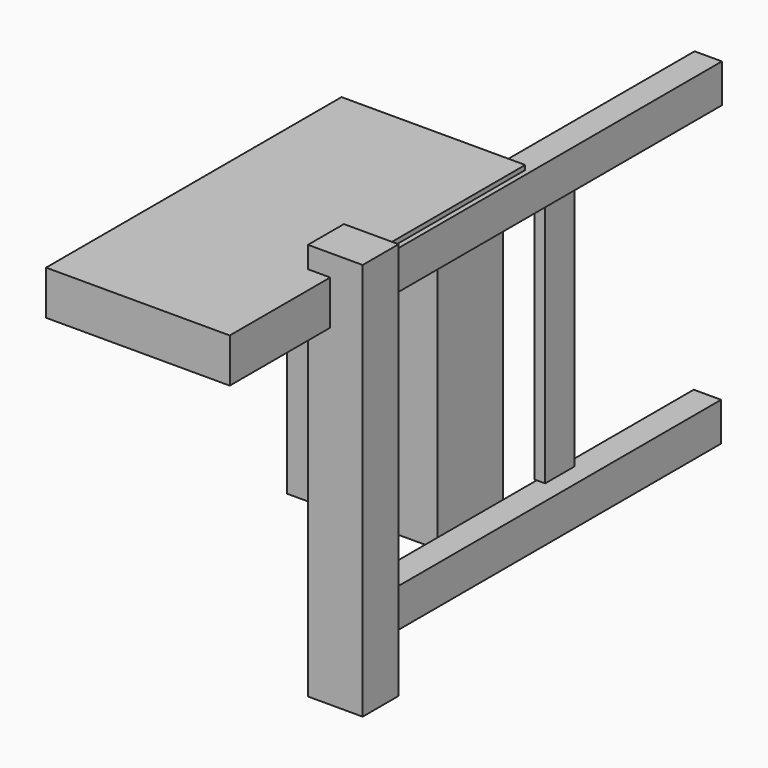
from build123d import *

# Parameters (mm, degrees)
F0_W      = 8.211054
F0_H      = 72.753724
F1_DEPTH  = 10
F2_W      = 80.200952
F2_H      = 7.065325
F3_DEPTH  = 5
F4_W      = 80.010001
F4_H      = 7.065322
F5_DEPTH  = 5
F7_W      = 6.683413
F7_H      = 46.783891
F8_DEPTH  = 2
F9_W      = 27.504185
F9_H      = 50.065406
F10_DEPTH = 15
F11_W     = 33.604937
F11_H     = 8.086341
F12_DEPTH = 67.564


with BuildPart() as f1:
    # F0 (on Right) → F1 (new body)
    with BuildSketch(Plane.YZ):
        with Locations((-40.482387, 1.527639)):
            Rectangle(F0_W, F0_H)
    extrude(amount=F1_DEPTH)

    # F2 (on Right) → F3 (join)
    with BuildSketch(Plane.YZ):
        with Locations((3.723616, 29.597972)):
            Rectangle(F2_W, F2_H)
    extrude(amount=F3_DEPTH)

    # F4 (on Right) → F5 (join)
    with BuildSketch(Plane.YZ):
        with Locations((3.62814, -24.824105)):
            Rectangle(F4_W, F4_H)
    extrude(amount=F5_DEPTH)

    # F9 (on Front) → F10 (join)
    with BuildSketch(Plane.XZ):
        with Locations((-13.752092, 1.876714)):
            Rectangle(F9_W, F9_H)
    extrude(amount=F10_DEPTH)

    # F11 (on Front) → F12 (join)
    with BuildSketch(Plane.XZ):
        with Locations((-12.732708, 29.923404)):
            Rectangle(F11_W, F11_H)
    extrude(amount=F12_DEPTH)


with BuildPart() as f8:
    # F7 (on Right) → F8 (new body)
    with BuildSketch(Plane.YZ):
        with Locations((10.502506, 2.482411)):
            Rectangle(F7_W, F7_H)
    extrude(amount=F8_DEPTH)


solid = Compound([f1.part, f8.part])
